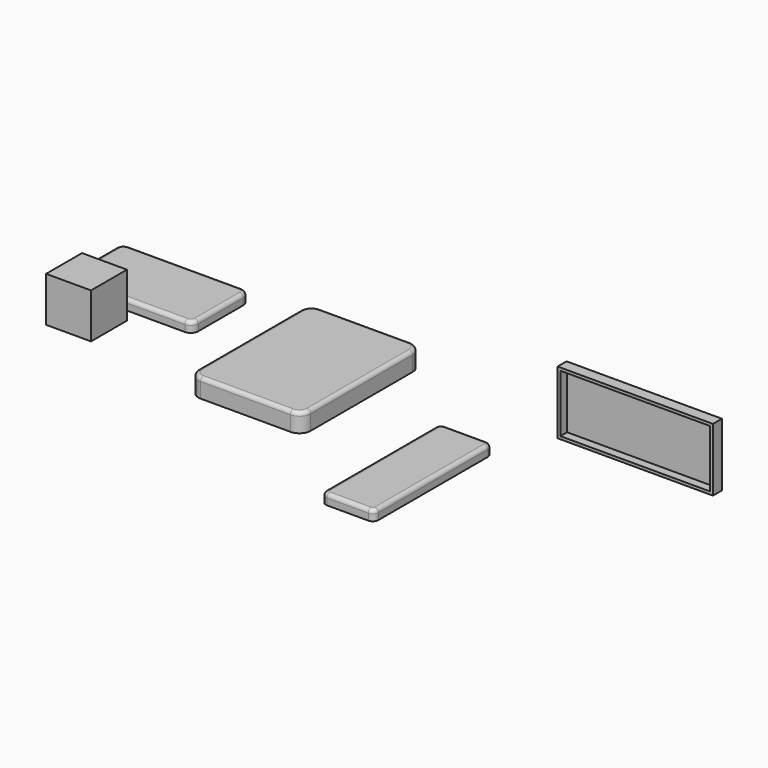
from build123d import *

# Parameters (mm, degrees)
F0_W      = 1524
F0_H      = 2032
F1_DEPTH  = 254
F2_R      = 152.4
F3_R      = 50.8
F4_W      = 1727.2
F4_H      = 965.2
F5_DEPTH  = 139.7
F6_R      = 101.6
F7_R      = 50.8
F8_W      = 609.6
F8_H      = 609.6
F9_DEPTH  = 609.6
F10_W     = 711.2
F10_H     = 2006.6
F11_DEPTH = 139.7
F12_R     = 76.2
F13_R     = 50.8
F14_W     = 2108.2
F14_H     = 152.4
F15_DEPTH = 857.25
F16_T     = -38.1


with BuildPart() as f1:
    # F0 (on Top) → F1 (new body)
    with BuildSketch(Plane.XY):
        with Locations((-844.3982357979, 829.087195158)):
            Rectangle(F0_W, F0_H)
    extrude(amount=F1_DEPTH)

    # F2
    f2_edges = [f1.edges().sort_by_distance(p)[0] for p in [
        (-82.398236, -186.912805, 127),
        (-1606.398236, -186.912805, 127),
        (-82.398236, 1845.087195, 127),
        (-1606.398236, 1845.087195, 127),
    ]]
    fillet(f2_edges, radius=F2_R)

    # F3
    f3_edges = [f1.edges().sort_by_distance(p)[0] for p in [
        (-844.398236, -186.912805, 254),
        (-127.035162, -142.275878, 254),
        (-82.398236, 829.087195, 254),
        (-127.035162, 1800.450269, 254),
        (-844.398236, 1845.087195, 254),
        (-1561.761309, 1800.450269, 254),
        (-1606.398236, 829.087195, 254),
        (-1561.761309, -142.275878, 254),
    ]]
    fillet(f3_edges, radius=F3_R)


with BuildPart() as f5:
    # F4 (on Top) → F5 (new body)
    with BuildSketch(Plane.XY):
        with Locations((-3302.6771389008, 1385.9223986626)):
            Rectangle(F4_W, F4_H)
    extrude(amount=F5_DEPTH)

    # F6
    f6_edges = [f5.edges().sort_by_distance(p)[0] for p in [
        (-4166.277139, 903.322399, 69.85),
        (-2439.077139, 903.322399, 69.85),
        (-2439.077139, 1868.522399, 69.85),
        (-4166.277139, 1868.522399, 69.85),
    ]]
    fillet(f6_edges, radius=F6_R)

    # F7
    f7_edges = [f5.edges().sort_by_distance(p)[0] for p in [
        (-4166.277139, 1385.922399, 139.7),
        (-4136.519188, 1838.764448, 139.7),
        (-3302.677139, 1868.522399, 139.7),
        (-2468.83509, 1838.764448, 139.7),
        (-2439.077139, 1385.922399, 139.7),
        (-2468.83509, 933.08035, 139.7),
        (-3302.677139, 903.322399, 139.7),
        (-4136.519188, 933.08035, 139.7),
    ]]
    fillet(f7_edges, radius=F7_R)


with BuildPart() as f9:
    # F8 (on Top) → F9 (new body)
    with BuildSketch(Plane.XY):
        with Locations((-3486.1819408417, 417.7207536578)):
            Rectangle(F8_W, F8_H)
    extrude(amount=F9_DEPTH)


with BuildPart() as f11:
    # F10 (on Top) → F11 (new body)
    with BuildSketch(Plane.XY):
        with Locations((1401.7300600052, -258.9808218002)):
            Rectangle(F10_W, F10_H)
    extrude(amount=F11_DEPTH)

    # F12
    f12_edges = [f11.edges().sort_by_distance(p)[0] for p in [
        (1046.13006, -1262.280822, 69.85),
        (1757.33006, -1262.280822, 69.85),
        (1757.33006, 744.319178, 69.85),
        (1046.13006, 744.319178, 69.85),
    ]]
    fillet(f12_edges, radius=F12_R)

    # F13
    f13_edges = [f11.edges().sort_by_distance(p)[0] for p in [
        (1401.73006, -1262.280822, 139.7),
        (1735.011597, -1239.962359, 139.7),
        (1757.33006, -258.980822, 139.7),
        (1735.011597, 722.000715, 139.7),
        (1401.73006, 744.319178, 139.7),
        (1068.448523, 722.000715, 139.7),
        (1046.13006, -258.980822, 139.7),
        (1068.448523, -1239.962359, 139.7),
    ]]
    fillet(f13_edges, radius=F13_R)


with BuildPart() as f15:
    # F14 (on Top) → F15 (new body)
    with BuildSketch(Plane.XY):
        with Locations((3120.2912612915, 1542.010418129)):
            Rectangle(F14_W, F14_H)
    extrude(amount=F15_DEPTH)

    # F16
    f16_openings = [f15.faces().sort_by_distance(p)[0] for p in [
        (3120.291261, 1465.810418, 428.625),
    ]]
    offset(amount=F16_T, openings=f16_openings)


solid = Compound([f1.part, f5.part, f9.part, f11.part, f15.part])
